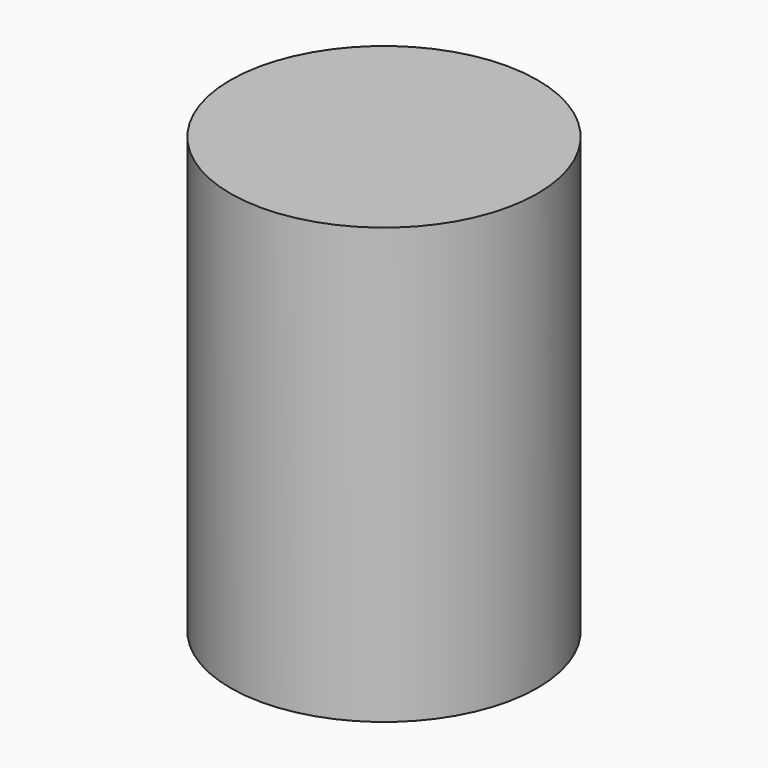
from build123d import *

# Parameters (mm, degrees)
F0_R     = 6
F0_R_2   = 4
F1_DEPTH = 10
F2_R     = 6
F2_R_2   = 4
F2_R_3   = 3
F3_DEPTH = 5
F4_R     = 6
F4_R_2   = 3
F5_DEPTH = 2


with BuildPart() as f1:
    # F0 (on Top) → F1 (new body)
    with BuildSketch(Plane.XY):
        Circle(F0_R)
        Circle(F0_R_2, mode=Mode.SUBTRACT)
    extrude(amount=F1_DEPTH)

    # F2 (on face) → F3 (join)
    with BuildSketch(Plane.XY.offset(10)):
        Circle(F2_R)
        Circle(F2_R_2, mode=Mode.SUBTRACT)
        Circle(F2_R_2)
        Circle(F2_R_3, mode=Mode.SUBTRACT)
    extrude(amount=F3_DEPTH)

    # F4 (on face) → F5 (join)
    with BuildSketch(Plane.XY.offset(15)):
        Circle(F4_R)
        Circle(F4_R_2, mode=Mode.SUBTRACT)
        Circle(F4_R_2)
    extrude(amount=F5_DEPTH)


solid = f1.part
